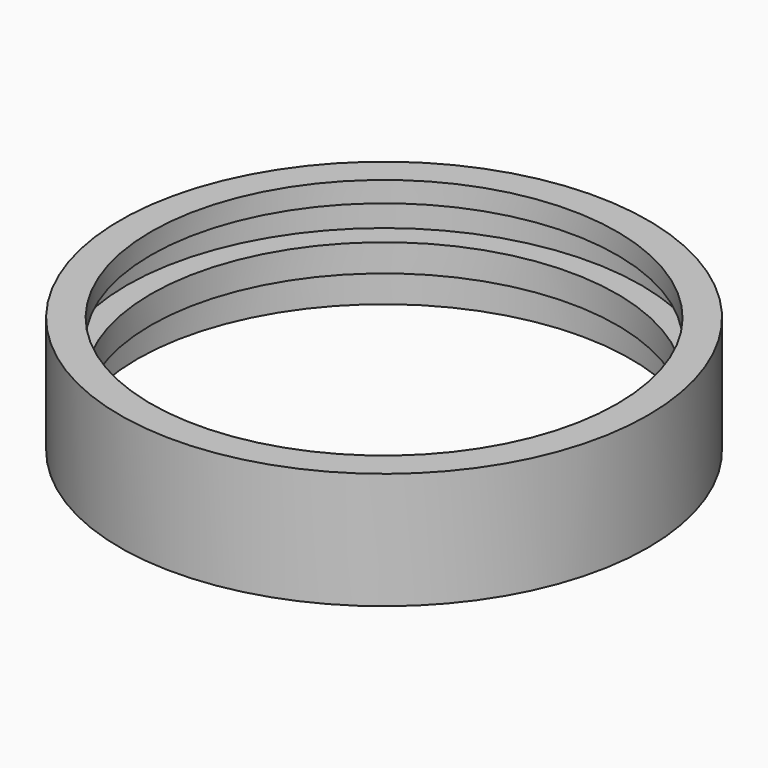
from build123d import *

# Parameters (mm, degrees)
F0_R     = 38.5
F0_R_2   = 36
F1_DEPTH = 5
F2_R     = 38.5
F2_R_2   = 36
F2_R_3   = 34
F3_DEPTH = 4
F4_R     = 38.5
F4_R_2   = 37.5
F5_DEPTH = 5
F6_R     = 38.5
F6_R_2   = 34
F7_DEPTH = 3


with BuildPart() as f1:
    # F0 (on Top) → F1 (new body)
    with BuildSketch(Plane.XY):
        Circle(F0_R)
        Circle(F0_R_2, mode=Mode.SUBTRACT)
    extrude(amount=F1_DEPTH)

    # F2 (on face) → F3 (join)
    with BuildSketch(Plane.XY.offset(5)):
        Circle(F2_R)
        Circle(F2_R_2, mode=Mode.SUBTRACT)
        Circle(F2_R_2)
        Circle(F2_R_3, mode=Mode.SUBTRACT)
    extrude(amount=F3_DEPTH)

    # F4 (on face) → F5 (join)
    with BuildSketch(Plane.XY.offset(9)):
        Circle(F4_R)
        Circle(F4_R_2, mode=Mode.SUBTRACT)
    extrude(amount=F5_DEPTH)

    # F6 (on face) → F7 (join)
    with BuildSketch(Plane.XY.offset(14)):
        Circle(F6_R)
        Circle(F6_R_2, mode=Mode.SUBTRACT)
    extrude(amount=F7_DEPTH)


solid = f1.part
